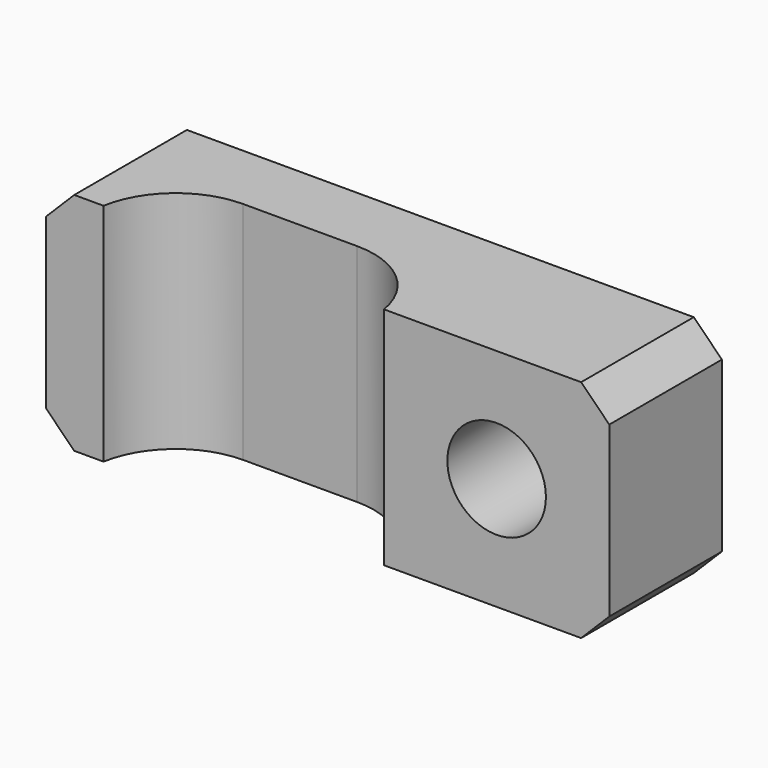
from build123d import *

# Parameters (mm, degrees)
PAD_DEPTH      = 4
PAD_DEPTH_BACK = 4
SKETCH001_R    = 1.75
POCKET_DEPTH   = 5
CHAMFER_SIZE   = 1


with BuildPart() as part:
    # Sketch → Pad (new body, two sides)
    with BuildSketch(Plane.XY) as pad_sk:
        with BuildLine():
            ThreePointArc((-10.999985, 2.5), (-12.936486, 1.791293), (-13.95804, 0))
            Line((-13.95804, 0), (-16, 0))
            Line((-16, 0), (-16, 5))
            Line((-16, 5), (4, 5))
            Line((4, 5), (4, 0))
            Line((-4, 0), (4, 0))
            ThreePointArc((-4, 0), (-5.021548, 1.791287), (-6.958038, 2.5))
            Line((-10.999985, 2.5), (-6.958038, 2.5))
        make_face()
    extrude(amount=PAD_DEPTH)
    extrude(pad_sk.sketch, amount=-PAD_DEPTH_BACK)

    # Sketch001 → Pocket (cut)
    with BuildSketch(Plane.XZ):
        Circle(SKETCH001_R)
    extrude(amount=-POCKET_DEPTH, mode=Mode.SUBTRACT)

    # Chamfer
    chamfer_edges = [part.edges().sort_by_distance(p)[0] for p in [
        (-16, 2.5, 4),
        (-16, 2.5, -4),
        (4, 2.5, -4),
        (4, 2.5, 4),
    ]]
    chamfer(chamfer_edges, length=CHAMFER_SIZE)


solid = part.part
